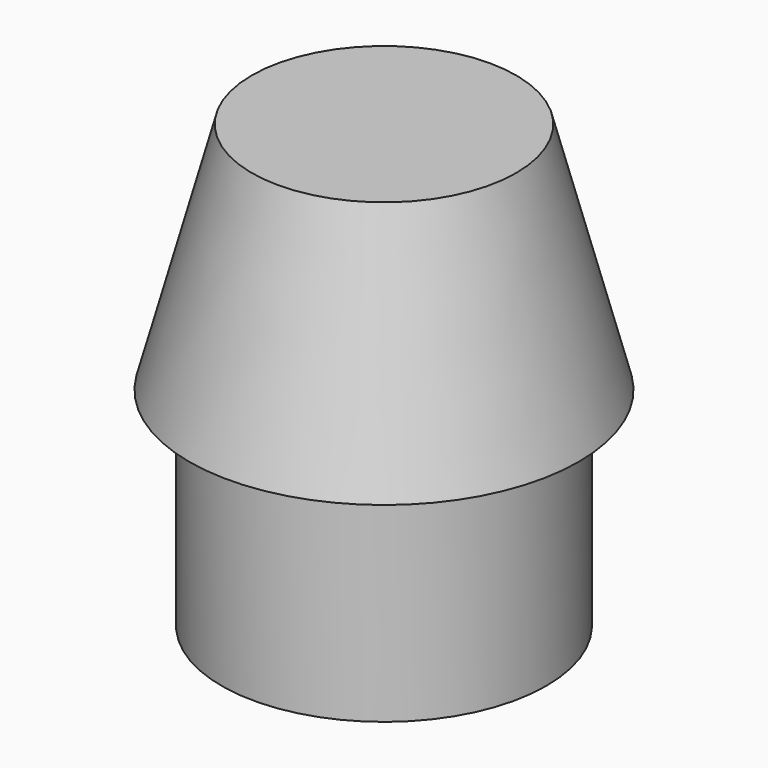
from build123d import *

# Parameters (mm, degrees)
F2_R     = 3.125
F3_DEPTH = 4
F4_R     = 3.75
F5_DEPTH = 4.5
F5_TAPER = 15


with BuildPart() as f3:
    # F2 (on Top) → F3 (new body)
    with BuildSketch(Plane.XY):
        Circle(F2_R)
    extrude(amount=F3_DEPTH)

    # F4 (on face) → F5 (join)
    with BuildSketch(Plane.XY.offset(4)):
        Circle(F4_R)
    extrude(amount=F5_DEPTH, taper=F5_TAPER)


solid = f3.part
